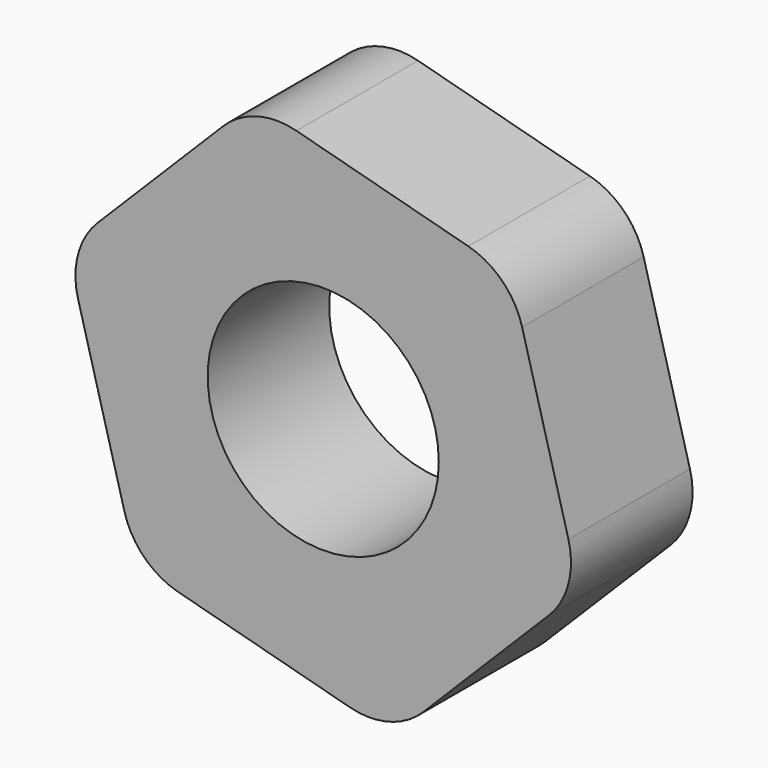
from build123d import *

# Parameters (mm, degrees)
F0_R     = 19.317337
F1_DEPTH = 25.4
F2_R     = 12.7


with BuildPart() as f1:
    # F0 (on Front) → F1 (new body)
    with BuildSketch(Plane.XZ):
        Polygon((42.893404, -11.421563), (31.338066, 31.435996), (-11.555338, 42.857559), (-42.893404, 11.421563), (-31.338066, -31.435996), (11.555338, -42.857559), align=None)
        Circle(F0_R, mode=Mode.SUBTRACT)
    extrude(amount=F1_DEPTH)

    # F2
    f2_edges = [f1.edges().sort_by_distance(p)[0] for p in [
        (-42.893404, -12.7, 11.421563),
        (-31.338066, -12.7, -31.435996),
        (11.555338, -12.7, -42.857559),
        (42.893404, -12.7, -11.421563),
        (31.338066, -12.7, 31.435996),
        (-11.555338, -12.7, 42.857559),
    ]]
    fillet(f2_edges, radius=F2_R)


solid = f1.part
